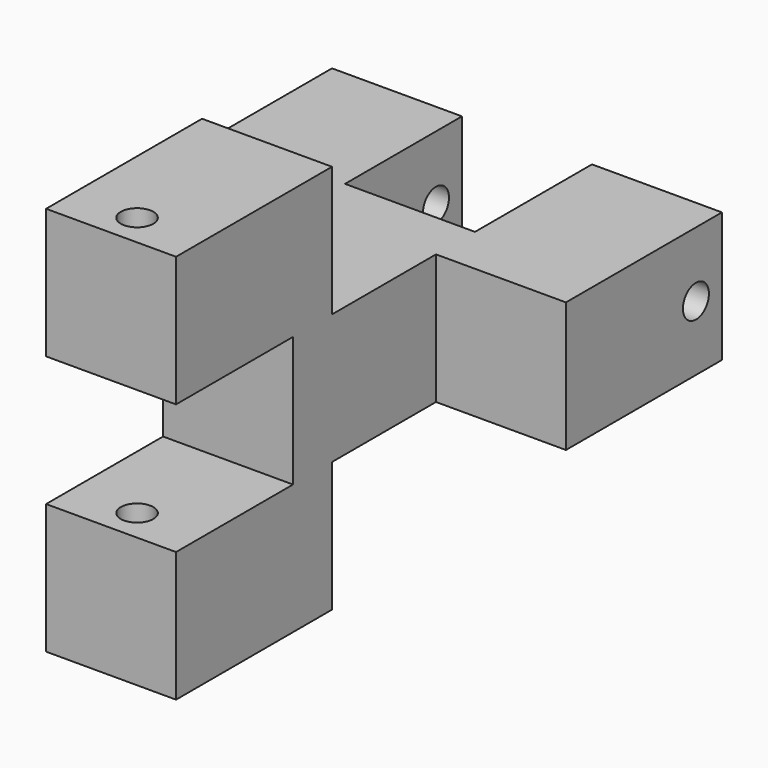
from build123d import *

# Parameters (mm, degrees)
F0_W      = 25.4
F0_H      = 25.4
F1_DEPTH  = 25.4
F3_DEPTH  = 25.4
F4_W      = 76.2
F4_H      = 76.2
F5_DEPTH  = 38.1
F6_W      = 25.4
F6_H      = 38.1
F7_DEPTH  = 101.6
F8_W      = 28.575
F8_H      = 25.4
F9_DEPTH  = 25.4
F10_R     = 3.175
F11_DEPTH = 101.6
F12_R     = 3.175
F13_DEPTH = 127


with BuildPart() as f1:
    # F0 (on Front) → F1 (new body)
    with BuildSketch(Plane.XZ):
        with Locations((-12.7, 12.7)):
            Rectangle(F0_W, F0_H)
    extrude(amount=F1_DEPTH)

    # F2 (on Top) → F3 (join)
    with BuildSketch(Plane.XY):
        Polygon((25.4, 0), (25.4, 38.1), (0, 38.1), (0, 9.525), (-25.4, 9.525), (-25.4, 38.1), (-50.8, 38.1), (-50.8, 0), align=None)
    extrude(amount=F3_DEPTH)

    # F4 (on face) → F5 (join)
    with BuildSketch(Plane.XZ.offset(25.4)):
        with Locations((-12.7, 12.7)):
            Rectangle(F4_W, F4_H)
    extrude(amount=F5_DEPTH)

    # F6 (on face) → F7 (cut)
    with BuildSketch(Plane.XY.offset(50.8)):
        with Locations((12.7, -44.45)):
            Rectangle(F6_W, F6_H)
        with Locations((-38.1, -44.45)):
            Rectangle(F6_W, F6_H)
    extrude(amount=-F7_DEPTH, mode=Mode.SUBTRACT)

    # F8 (on face) → F9 (cut)
    with BuildSketch(Plane.YZ):
        with Locations((-49.2125, 12.7)):
            Rectangle(F8_W, F8_H)
    extrude(amount=-F9_DEPTH, mode=Mode.SUBTRACT)

    # F10 (on face) → F11 (cut)
    with BuildSketch(Plane.XY.offset(50.8)):
        with Locations((-12.7, -57.15)):
            Circle(F10_R)
    extrude(amount=-F11_DEPTH, mode=Mode.SUBTRACT)

    # F12 (on face) → F13 (cut)
    with BuildSketch(Plane.YZ.offset(25.4)):
        with Locations((31.75, 12.7)):
            Circle(F12_R)
    extrude(amount=-F13_DEPTH, mode=Mode.SUBTRACT)


solid = f1.part
